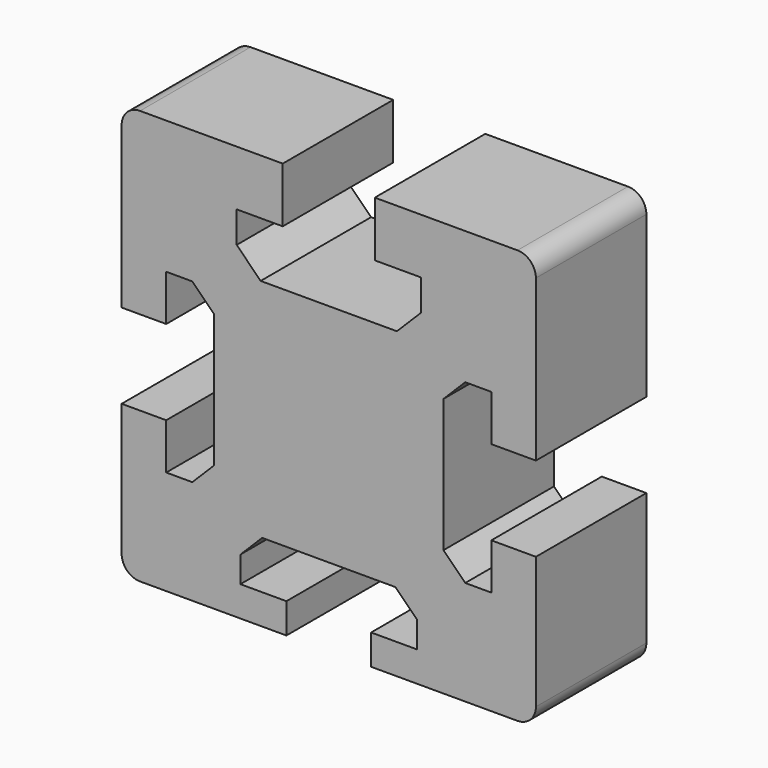
from build123d import *

# Parameters (mm, degrees)
F1_DEPTH  = 15
F0_W      = 9.2000017166
F0_H      = 6.3999991417
F0_H_2    = 0.5
F0_W_2    = 4.957072109
F0_H_3    = 6
F0_H_4    = 4
F2_DEPTH  = 23
F4_DEPTH  = 52
F6_D      = 5
F7_R      = 2
F10_COUNT = 4


with BuildPart() as f1:
    # F0 (on Front) → F1 (new body)
    with BuildSketch(Plane.XZ):
        Polygon((0, 45), (0, 0), (45, 0), (45, 45), (32.5, 45), (27.5, 45), (27.5, 39), (32.5, 39), (32.5, 35.6), (29.9, 33), (15.1, 33), (12.5, 35.6), (12.5, 39), (17.5, 39), (17.5, 45), (12.5, 45), align=None)
    extrude(amount=-F1_DEPTH)

    # F7
    f7_edges = [f1.edges().sort_by_distance(p)[0] for p in [
        (0, 7.5, 45),
        (45, 7.5, 45),
        (45, 7.5, 0),
        (0, 7.5, 0),
    ]]
    fillet(f7_edges, radius=F7_R)

    # F10: F2 ×4 about axis
    f10_axis = Axis((22.5, -59.5842492698, 20.9414814264), (0, -1, 0))


with BuildPart() as f2:
    # F0 (on Front) → F2 (new body)
    with BuildSketch(Plane.XZ):
        with Locations((22.5, 41.8000004292)):
            Rectangle(F0_W, F0_H)
        Polygon((27.1000008583, 38.6000008583), (17.8999991417, 38.6000008583), (12.8999991417, 38.6000008583), (12.8999991417, 35.7656850694), (15.2656850694, 33.3999991417), (29.7343149306, 33.3999991417), (32.1000008583, 35.7656850694), (32.1000008583, 38.6000008583), align=None)
        with Locations((22.5, 45.25)):
            Rectangle(F0_W, F0_H_2)
        with Locations((29.5785369128, 48.5)):
            Rectangle(F0_W_2, F0_H_3)
        with Locations((22.5, 48.5)):
            Rectangle(F0_W, F0_H_3)
        with Locations((15.4214630872, 48.5)):
            Rectangle(F0_W_2, F0_H_3)
        with Locations((22.5, 53.5)):
            Rectangle(F0_W, F0_H_4)
    extrude(amount=-F2_DEPTH)

    # F0 (on Front) → F4 (join)
    with BuildSketch(Plane.XZ):
        with Locations((22.5, 45.25)):
            Rectangle(F0_W, F0_H_2)
        with Locations((22.5, 48.5)):
            Rectangle(F0_W, F0_H_3)
        with Locations((15.4214630872, 48.5)):
            Rectangle(F0_W_2, F0_H_3)
        with Locations((29.5785369128, 48.5)):
            Rectangle(F0_W_2, F0_H_3)
        with Locations((22.5, 53.5)):
            Rectangle(F0_W, F0_H_4)
    extrude(amount=-F4_DEPTH)

    # F6 (through all)
    with Locations(Plane.XY.offset(55.5)):
        with Locations((22.5, 26)):
            Hole(F6_D / 2)


with BuildPart() as f1_1:
    add(f1.part)
    for i in range(1, F10_COUNT):
        add(f2.part.rotate(f10_axis, i * 360 / F10_COUNT), mode=Mode.SUBTRACT)

    # F10#seed: cut F2
    add(f2.part, mode=Mode.SUBTRACT)


solid = f1_1.part
